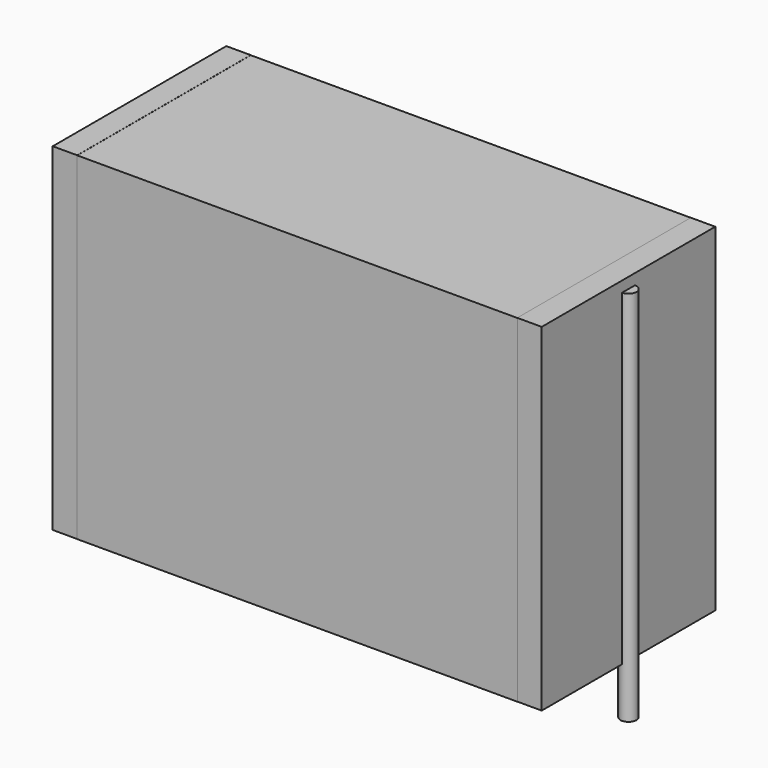
from build123d import *

# Parameters (mm, degrees)
SKETCH_W          = 24.75
SKETCH_H          = 12.2
PAD_DEPTH         = 19
SKETCH001_R       = 0.45
PAD001_DEPTH      = 18
PAD001_DEPTH_BACK = 3.2
SKETCH002_W       = 1.375
SKETCH002_H       = 12.2
PAD002_DEPTH      = 19


with BuildPart() as pad:
    # Sketch → Pad (new body)
    with BuildSketch(Plane.XY.offset(0.1)):
        with Locations((13.75, 0)):
            Rectangle(SKETCH_W, SKETCH_H)
    extrude(amount=PAD_DEPTH)


with BuildPart() as pad001:
    # Sketch001 → Pad001 (new body, two sides)
    with BuildSketch(Plane.XY.offset(0.5)) as pad001_sk:
        Circle(SKETCH001_R)
        with Locations((27.5, 0)):
            Circle(SKETCH001_R)
    extrude(amount=PAD001_DEPTH)
    extrude(pad001_sk.sketch, amount=-PAD001_DEPTH_BACK)


with BuildPart() as pad002:
    # Sketch002 → Pad002 (new body)
    with BuildSketch(Plane.XY.offset(0.105)):
        with Locations((0.6875, 0)):
            Rectangle(SKETCH002_W, SKETCH002_H)
        with Locations((26.8125, 0)):
            Rectangle(SKETCH002_W, SKETCH002_H)
    extrude(amount=PAD002_DEPTH)


solid = Compound([pad.part, pad001.part, pad002.part])
